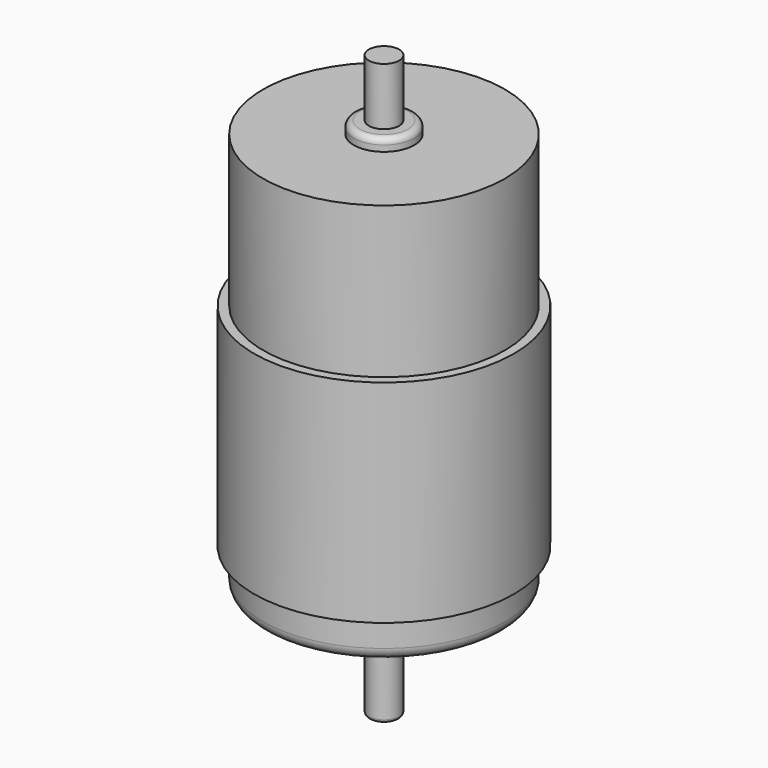
from build123d import *

# Parameters (mm, degrees)
F0_R      = 21.5
F1_DEPTH  = 35
F2_R      = 20
F3_DEPTH  = 25
F4_R      = 5
F5_DEPTH  = 2
F6_R      = 20
F7_DEPTH  = 6.5
F8_R      = 2
F9_R      = 5
F10_DEPTH = 2
F11_R     = 1
F12_R     = 2.5
F13_DEPTH = 16
F14_R     = 0.5
F15_R     = 1
F16_R     = 2.5
F17_DEPTH = 9.5


with BuildPart() as f1:
    # F0 (on Top) → F1 (new body)
    with BuildSketch(Plane.XY):
        Circle(F0_R)
    extrude(amount=-F1_DEPTH)

    # F2 (on face) → F3 (join)
    with BuildSketch(Plane.XY):
        Circle(F2_R)
    extrude(amount=F3_DEPTH)

    # F4 (on face) → F5 (join)
    with BuildSketch(Plane.XY.offset(25)):
        Circle(F4_R)
    extrude(amount=F5_DEPTH)

    # F6 (on face) → F7 (join)
    with BuildSketch(Plane(origin=(0, 0, -35), x_dir=(1, 0, 0), z_dir=(0, 0, -1))):
        Circle(F6_R)
    extrude(amount=F7_DEPTH)

    # F8
    f8_edges = [f1.edges().sort_by_distance(p)[0] for p in [
        (-20, 0, -41.5),
    ]]
    fillet(f8_edges, radius=F8_R)

    # F9 (on face) → F10 (join)
    with BuildSketch(Plane(origin=(0, 0, -41.5), x_dir=(1, 0, 0), z_dir=(0, 0, -1))):
        Circle(F9_R)
    extrude(amount=F10_DEPTH)

    # F11
    f11_edges = [f1.edges().sort_by_distance(p)[0] for p in [
        (-5, 0, -43.5),
    ]]
    fillet(f11_edges, radius=F11_R)

    # F12 (on face) → F13 (join)
    with BuildSketch(Plane(origin=(0, 0, -43.5), x_dir=(1, 0, 0), z_dir=(0, 0, -1))):
        Circle(F12_R)
    extrude(amount=F13_DEPTH)

    # F14
    f14_edges = [f1.edges().sort_by_distance(p)[0] for p in [
        (-2.5, 0, -59.5),
    ]]
    fillet(f14_edges, radius=F14_R)

    # F15
    f15_edges = [f1.edges().sort_by_distance(p)[0] for p in [
        (-5, 0, 27),
    ]]
    fillet(f15_edges, radius=F15_R)

    # F16 (on face) → F17 (join)
    with BuildSketch(Plane.XY.offset(27)):
        Circle(F16_R)
    extrude(amount=F17_DEPTH)


solid = f1.part
